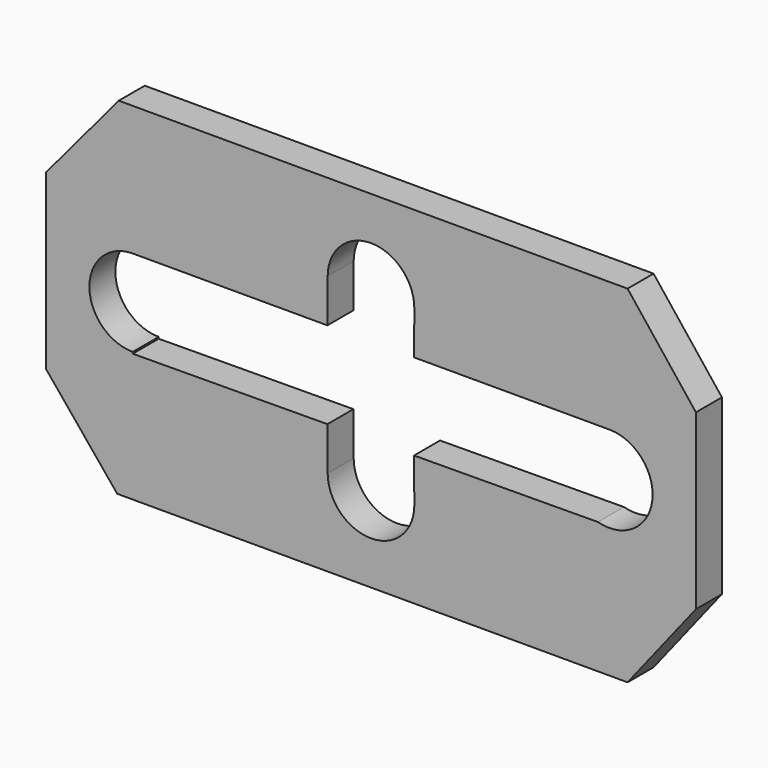
from build123d import *

# Parameters (mm, degrees)
F1_DEPTH = 7.5


with BuildPart() as f1:
    # F0 (on Front) → F1 (new body)
    with BuildSketch(Plane.XZ):
        Polygon((75, 20), (59.2202468368, 40), (-58.2237102091, 40), (-75, 20), (-75, -20), (-58.5763572697, -40), (59.2202468368, -40), (75, -20), align=None)
        with BuildLine():
            Line((-10.0665842132, -10.0677091939), (-55, -10.3689343789))
            Line((-55, -10.3689343789), (-55, -10))
            ThreePointArc((-55, -10), (-65, 0), (-55, 10))
            Line((-55, 10), (-10.0671500994, 10))
            Line((-10.0671500994, 10), (-9.9997760521, 20.0669246476))
            ThreePointArc((-9.9997760521, 20.0669246476), (0.0669246476, 29.9997760521), (9.9997760521, 19.9330753524))
            Line((9.9997760521, 19.9330753524), (9.946090286, 10))
            Line((9.946090286, 10), (55, 10))
            ThreePointArc((55, 10), (64.9118912225, -1.3245423337), (52.3742560939, -9.6491175213))
            Line((52.3742560939, -9.6491175213), (9.9327416981, -9.9336374671))
            Line((9.9327416981, -9.9336374671), (9.9997753021, -19.9329633834))
            ThreePointArc((9.9997753021, -19.9329633834), (0.0335184966, -29.9999438254), (-10, -20))
            Line((-10, -20), (-10.0665842132, -10.0677091939))
        make_face(mode=Mode.SUBTRACT)
    extrude(amount=F1_DEPTH)


solid = f1.part
